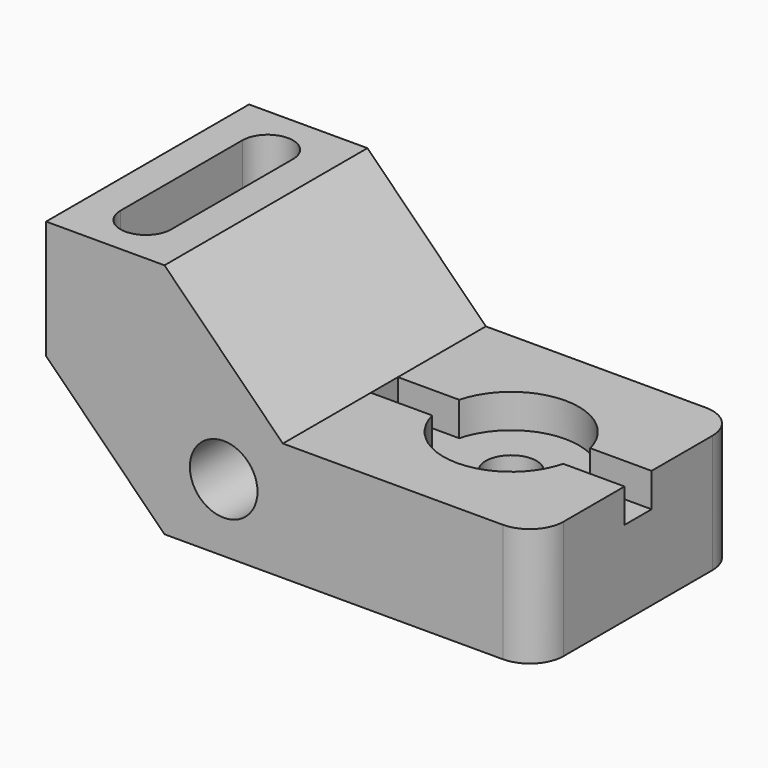
from build123d import *

# Parameters (mm, degrees)
F1_DEPTH       = 38.1
F3_DEPTH       = 76.201
F4_R           = 10.16
F6_DEPTH       = 27.94
F8_D           = 15.24
F8_CBORE_D     = 40.64
F8_CBORE_DEPTH = 10.16
F10_DEPTH      = 10.16
F11_R          = 10.16
F12_DEPTH      = 76.201


with BuildPart() as f1:
    # F0 (on Front) → F1 (new body, symmetric)
    with BuildSketch(Plane.XZ):
        Polygon((0, 71.12), (0, 0), (147.32, 0), (147.32, 35.56), (71.12, 35.56), (35.56, 71.12), align=None)
    extrude(amount=F1_DEPTH, both=True)

    # F2 (on face) → F3 (cut, through all)
    with BuildSketch(Plane.XZ.offset(38.1)):
        Polygon((0, 35.56), (0, 0), (35.56, 0), align=None)
    extrude(amount=-F3_DEPTH, mode=Mode.SUBTRACT)

    # F4
    f4_edges = [f1.edges().sort_by_distance(p)[0] for p in [
        (147.32, -38.1, 17.78),
        (147.32, 38.1, 17.78),
    ]]
    fillet(f4_edges, radius=F4_R)

    # F5 (on face) → F6 (cut)
    with BuildSketch(Plane.XY.offset(71.12)):
        with BuildLine():
            ThreePointArc((25.4, 22.86), (17.78, 30.48), (10.16, 22.86))
            Line((10.16, 22.86), (10.16, -22.86))
            ThreePointArc((10.16, -22.86), (17.78, -30.48), (25.4, -22.86))
            Line((25.4, -22.86), (25.4, 22.86))
        make_face()
    extrude(amount=-F6_DEPTH, mode=Mode.SUBTRACT)

    # F8 (through all)
    with Locations(Plane.XY.offset(35.56)):
        with Locations((109.22, 0)):
            CounterBoreHole(F8_D / 2, F8_CBORE_D / 2, F8_CBORE_DEPTH)

    # F9 (on face) → F10 (cut)
    with BuildSketch(Plane.XY.offset(35.56)):
        Polygon((71.12, 5.08), (71.12, 0), (71.12, -5.08), (147.32, -5.08), (147.32, 0), (147.32, 5.08), align=None)
        Polygon((71.12, 5.08), (71.12, 0), (71.12, -5.08), (147.32, -5.08), (147.32, 0), (147.32, 5.08), align=None)
    extrude(amount=-F10_DEPTH, mode=Mode.SUBTRACT)

    # F11 (on face) → F12 (cut, through all)
    with BuildSketch(Plane.XZ.offset(38.1)):
        with Locations((53.34, 20.32)):
            Circle(F11_R)
    extrude(amount=-F12_DEPTH, mode=Mode.SUBTRACT)


solid = f1.part
